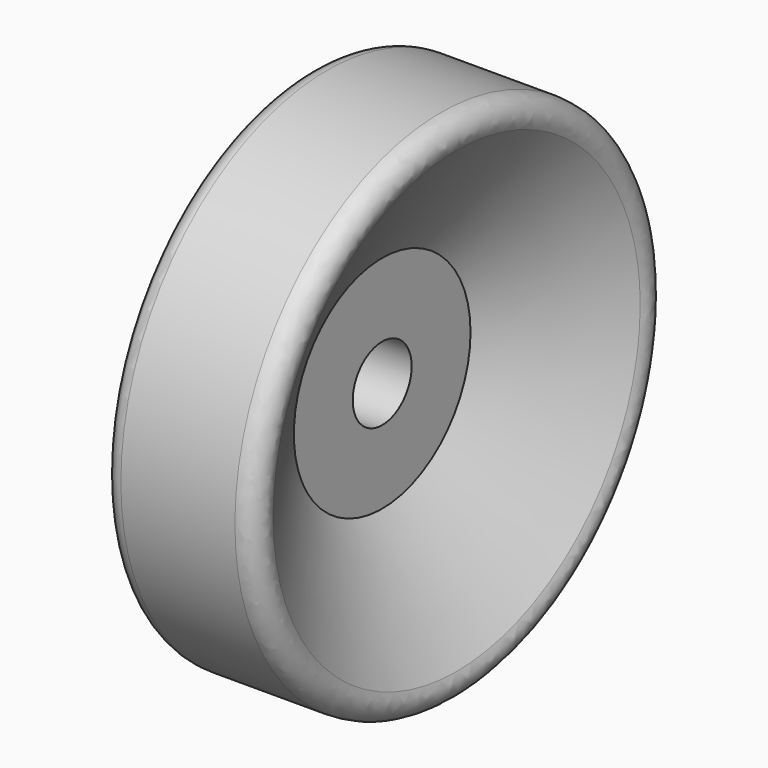
from build123d import *

# Parameters (mm, degrees)
FILLET005_R = 1
FILLET006_R = 1


with BuildPart() as part:
    # Sketch006 → Revolution002 (revolve)
    with BuildSketch(Plane.XY):
        Polygon((2, 14), (2, 2), (6, 2), (6, 6), (11, 14), align=None)
    revolve(axis=Axis((0, 0, 0), (1, 0, 0)))

    # Fillet005
    fillet005_edges = [part.edges().sort_by_distance(p)[0] for p in [
        (2, -14, 0),
    ]]
    fillet(fillet005_edges, radius=FILLET005_R)

    # Fillet006
    fillet006_edges = [part.edges().sort_by_distance(p)[0] for p in [
        (11, -14, 0),
    ]]
    fillet(fillet006_edges, radius=FILLET006_R)


with BuildPart() as part_1:
    # Body003 placement: moved
    add(part.part.moved(Location((20, 1, 0))))


solid = part_1.part
